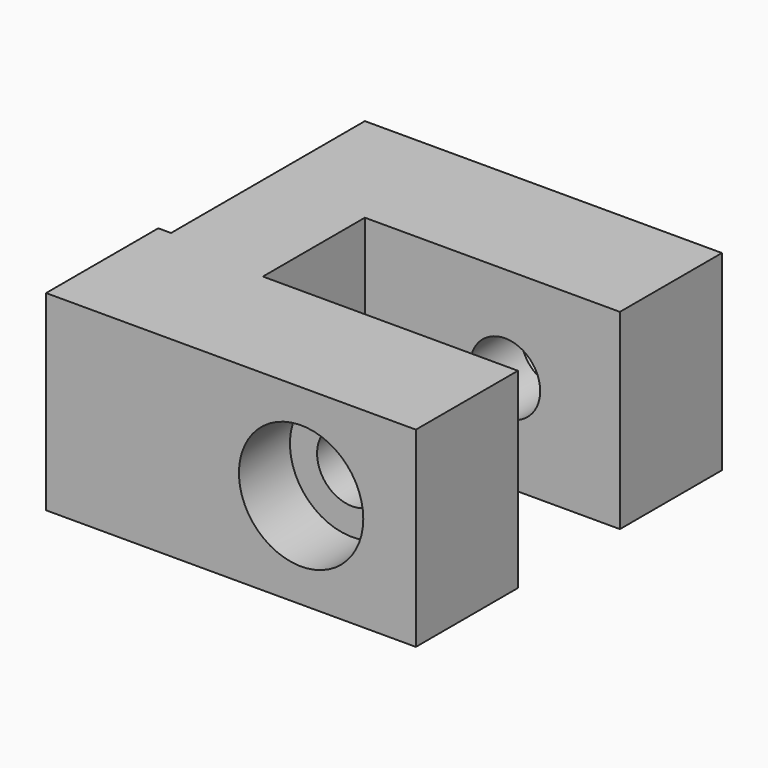
from build123d import *

# Parameters (mm, degrees)
F1_DEPTH       = 15
F3_D           = 5.5
F3_CBORE_D     = 9.75
F3_CBORE_DEPTH = 5
F5_D           = 3.4
F5_CBORE_D     = 6.5
F5_CBORE_DEPTH = 3
F7_DEPTH       = 5


with BuildPart() as f1:
    # F0 (on Top) → F1 (new body)
    with BuildSketch(Plane.XY):
        Polygon((0, 15), (0, 0), (0, -4), (-1, -4), (-1, -15), (28, -15), (28, -5), (8, -5), (8, 0), (8, 5), (28, 5), (28, 15), align=None)
    extrude(amount=F1_DEPTH)

    # F3 (through all)
    with Locations(Plane.XZ.offset(15)):
        with Locations((19, 7.5)):
            CounterBoreHole(F3_D / 2, F3_CBORE_D / 2, F3_CBORE_DEPTH)

    # F5 (through all)
    with Locations(Plane.YZ.offset(8)):
        with Locations((0, 7.5)):
            CounterBoreHole(F5_D / 2, F5_CBORE_D / 2, F5_CBORE_DEPTH)

    # F6 (on face) → F7 (cut)
    with BuildSketch(Plane(origin=(0, 15, 0), x_dir=(-1, 0, 0), z_dir=(0, 1, 0))):
        Polygon((-23.05, 5.1617314098), (-19, 2.8234628196), (-14.95, 5.1617314098), (-14.95, 9.8382685902), (-19, 12.1765371804), (-23.05, 9.8382685902), align=None)
    extrude(amount=-F7_DEPTH, mode=Mode.SUBTRACT)


solid = f1.part
